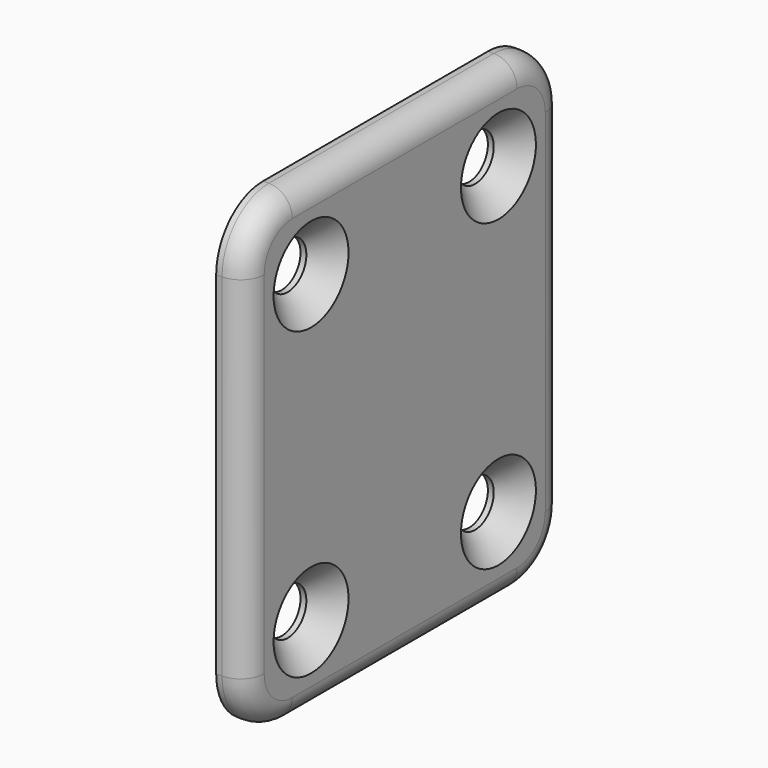
from build123d import *

# Parameters (mm, degrees)
CYLINDER005_R     = 2
CYLINDER005_DEPTH = 30
CYLINDER006_R     = 2
CYLINDER006_DEPTH = 30
CYLINDER007_R     = 2
CYLINDER007_DEPTH = 30
CYLINDER004_R     = 2
CYLINDER004_DEPTH = 30
BOX001_W          = 2.5
BOX001_H          = 34
BOX001_DEPTH      = 40
FILLET006_R       = 5
CHAMFER006_SIZE   = 2
FILLET007_R       = 2


with BuildPart() as obj1:
    # Cylinder005 → Cylinder005 (new body)
    with BuildSketch(Plane(origin=(20, -10, 6), x_dir=(0, 0, -1), z_dir=(1, 0, 0))):
        Circle(CYLINDER005_R)
    extrude(amount=CYLINDER005_DEPTH)


with BuildPart() as obj2:
    # Cylinder006 → Cylinder006 (new body)
    with BuildSketch(Plane(origin=(20, -10, 32), x_dir=(0, 0, -1), z_dir=(1, 0, 0))):
        Circle(CYLINDER006_R)
    extrude(amount=CYLINDER006_DEPTH)


with BuildPart() as obj3:
    # Cylinder007 → Cylinder007 (new body)
    with BuildSketch(Plane(origin=(20, 10, 6), x_dir=(0, 0, -1), z_dir=(1, 0, 0))):
        Circle(CYLINDER007_R)
    extrude(amount=CYLINDER007_DEPTH)


with BuildPart() as obj4:
    # Cylinder004 → Cylinder004 (new body)
    with BuildSketch(Plane(origin=(20, 10, 32), x_dir=(0, 0, -1), z_dir=(1, 0, 0))):
        Circle(CYLINDER004_R)
    extrude(amount=CYLINDER004_DEPTH)

    # Fusion003: union obj1, obj2, obj3
    add(obj1.part)
    add(obj2.part)
    add(obj3.part)


with BuildPart() as obj5:
    # Box001 → Box001 (new body)
    with BuildSketch(Plane(origin=(38, -17, -1), x_dir=(1, 0, 0), z_dir=(0, 0, 1))):
        with Locations((1.25, 17)):
            Rectangle(BOX001_W, BOX001_H)
    extrude(amount=BOX001_DEPTH)

    # Fillet006
    fillet006_edges = [obj5.edges().sort_by_distance(p)[0] for p in [
        (39.25, -17, -1),
        (39.25, -17, 39),
        (39.25, 17, -1),
        (39.25, 17, 39),
    ]]
    fillet(fillet006_edges, radius=FILLET006_R)

    # Cut003: cut obj4
    add(obj4.part, mode=Mode.SUBTRACT)

    # Chamfer006
    chamfer006_edges = [obj5.edges().sort_by_distance(p)[0] for p in [
        (40.5, 10, 8),
        (40.5, 10, 34),
        (40.5, -10, 8),
        (40.5, -10, 34),
    ]]
    chamfer(chamfer006_edges, length=CHAMFER006_SIZE)

    # Fillet007
    fillet007_edges = [obj5.edges().sort_by_distance(p)[0] for p in [
        (40.5, -17, 19),
    ]]
    fillet(fillet007_edges, radius=FILLET007_R)


solid = obj5.part
